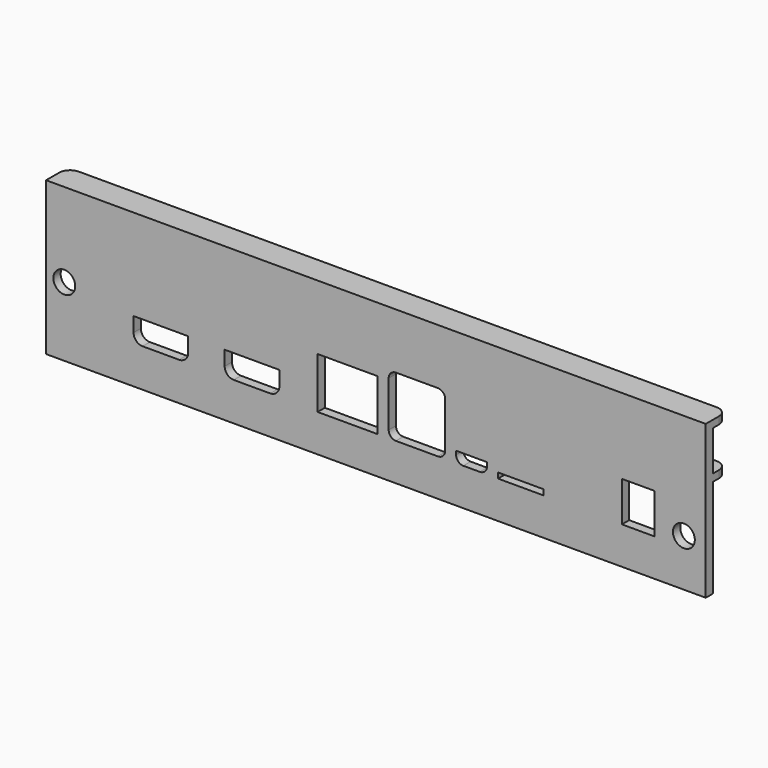
from build123d import *

# Parameters (mm, degrees)
SKETCH_W     = 181
SKETCH_H     = 42
SKETCH_R     = 3
SKETCH_W_2   = 9
SKETCH_H_2   = 11
SKETCH_W_3   = 12.5
SKETCH_H_3   = 1.5
SKETCH_W_4   = 16.5
SKETCH_H_4   = 14
PAD_DEPTH    = 2.5
PAD001_DEPTH = 2
PAD002_DEPTH = 2


with BuildPart() as part:
    # Sketch → Pad (new body)
    with BuildSketch(Plane.XZ):
        with Locations((90.5, 21)):
            Rectangle(SKETCH_W, SKETCH_H)
        with Locations((175, 13)):
            Circle(SKETCH_R, mode=Mode.SUBTRACT)
        with Locations((5, 19)):
            Circle(SKETCH_R, mode=Mode.SUBTRACT)
        with Locations((162.5, 15.75)):
            Rectangle(SKETCH_W_2, SKETCH_H_2, mode=Mode.SUBTRACT)
        with BuildLine():
            Line((96, 26.75), (107.5, 26.75))
            ThreePointArc((109.5, 24.75), (108.914214, 26.164214), (107.5, 26.75))
            Line((109.5, 24.75), (109.5, 12.25))
            ThreePointArc((107.5, 10.25), (108.914214, 10.835786), (109.5, 12.25))
            Line((107.5, 10.25), (96, 10.25))
            ThreePointArc((94, 12.25), (94.585786, 10.835786), (96, 10.25))
            Line((94, 12.25), (94, 24.75))
            ThreePointArc((96, 26.75), (94.585786, 26.164214), (94, 24.75))
        make_face(mode=Mode.SUBTRACT)
        with Locations((130.25, 11)):
            Rectangle(SKETCH_W_3, SKETCH_H_3, mode=Mode.SUBTRACT)
        with BuildLine():
            Line((112.5, 13.25), (121, 13.25))
            Line((121, 13.25), (121, 12.25))
            ThreePointArc((119, 10.25), (120.414214, 10.835786), (121, 12.25))
            Line((119, 10.25), (114.5, 10.25))
            ThreePointArc((112.5, 12.25), (113.085786, 10.835786), (114.5, 10.25))
            Line((112.5, 12.25), (112.5, 13.25))
        make_face(mode=Mode.SUBTRACT)
        with Locations((82.75, 17.25)):
            Rectangle(SKETCH_W_4, SKETCH_H_4, mode=Mode.SUBTRACT)
        with BuildLine():
            Line((49, 17), (64, 17))
            Line((64, 17), (64, 13))
            ThreePointArc((61.5, 10.5), (63.267767, 11.232233), (64, 13))
            Line((61.5, 10.5), (51.5, 10.5))
            ThreePointArc((49, 13), (49.732233, 11.232233), (51.5, 10.5))
            Line((49, 13), (49, 17))
        make_face(mode=Mode.SUBTRACT)
        with BuildLine():
            Line((24, 17), (39, 17))
            Line((39, 17), (39, 13))
            ThreePointArc((36.5, 10.5), (38.267767, 11.232233), (39, 13))
            Line((36.5, 10.5), (26.5, 10.5))
            ThreePointArc((24, 13), (24.732233, 11.232233), (26.5, 10.5))
            Line((24, 13), (24, 17))
        make_face(mode=Mode.SUBTRACT)
    extrude(amount=PAD_DEPTH)

    # Sketch001 (on Part) → Pad001 (join)
    with BuildSketch(Plane.XY.offset(27)):
        with BuildLine():
            Line((0, 0), (181, 0))
            Line((181, 0), (181, 2))
            ThreePointArc((181, 2), (180.12132, 4.12132), (178, 5))
            Line((178, 5), (3, 5))
            ThreePointArc((3, 5), (0.87868, 4.12132), (0, 2))
            Line((0, 2), (0, 0))
        make_face()
    extrude(amount=PAD001_DEPTH)

    # Sketch002 → Pad002 (join)
    with BuildSketch(Plane.XY.offset(40)):
        with BuildLine():
            Line((0, 0), (181, 0))
            Line((181, 0), (181, 2))
            ThreePointArc((181, 2), (180.12132, 4.12132), (178, 5))
            Line((178, 5), (3, 5))
            ThreePointArc((3, 5), (0.87868, 4.12132), (0, 2))
            Line((0, 2), (0, 0))
        make_face()
    extrude(amount=PAD002_DEPTH)


solid = part.part
